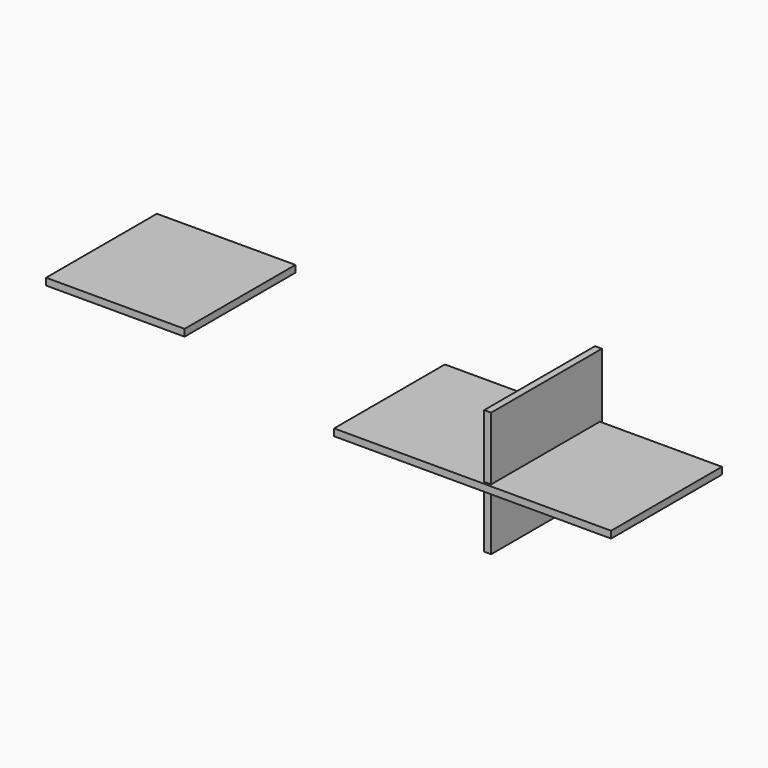
from build123d import *

# Parameters (mm, degrees)
F0_W     = 400
F0_H     = 400
F1_DEPTH = 20
F2_W     = 400
F2_H     = 360
F3_DEPTH = 20
F4_W     = 800
F4_H     = 400
F5_DEPTH = 20


with BuildPart() as f1:
    # F0 (on Top) → F1 (new body)
    with BuildSketch(Plane.XY):
        with Locations((-1194.274637, 163.637382)):
            Rectangle(F0_W, F0_H)
    extrude(amount=F1_DEPTH)


with BuildPart() as f3:
    # F2 (on Right) → F3 (new body)
    with BuildSketch(Plane.YZ):
        with Locations((2.177419, 22.407577)):
            Rectangle(F2_W, F2_H)
    extrude(amount=F3_DEPTH)


with BuildPart() as f5:
    # F4 (on Top) → F5 (new body)
    with BuildSketch(Plane.XY):
        with Locations((-27.399193, -5.416635)):
            Rectangle(F4_W, F4_H)
    extrude(amount=F5_DEPTH)


solid = Compound([f1.part, f3.part, f5.part])
